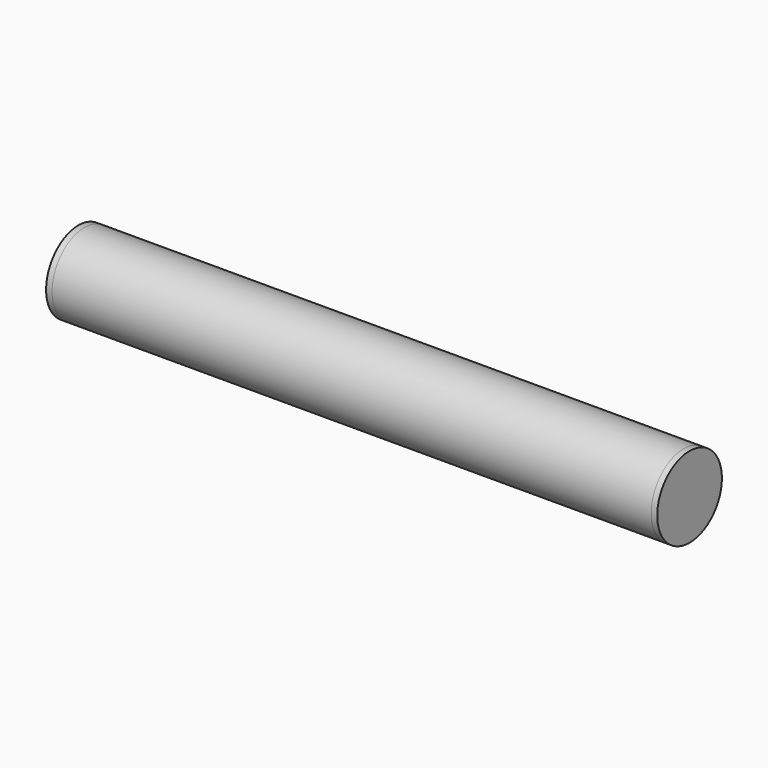
from build123d import *

# Parameters (mm, degrees)
F0_R     = 6.75
F0_R_2   = 6.375
F1_DEPTH = 100
F2_R     = 6.75
F3_DEPTH = 1
F4_R     = 6.75
F5_DEPTH = 1


with BuildPart() as f1:
    # F0 (on Right) → F1 (new body)
    with BuildSketch(Plane.YZ):
        Circle(F0_R)
        Circle(F0_R_2, mode=Mode.SUBTRACT)
    extrude(amount=F1_DEPTH)

    # F2 (on face) → F3 (join)
    with BuildSketch(Plane(origin=(0, 0, 0), x_dir=(0, -1, 0), z_dir=(-1, 0, 0))):
        Circle(F2_R)
    extrude(amount=F3_DEPTH)

    # F4 (on face) → F5 (join)
    with BuildSketch(Plane.YZ.offset(100)):
        Circle(F4_R)
    extrude(amount=F5_DEPTH)


solid = f1.part
